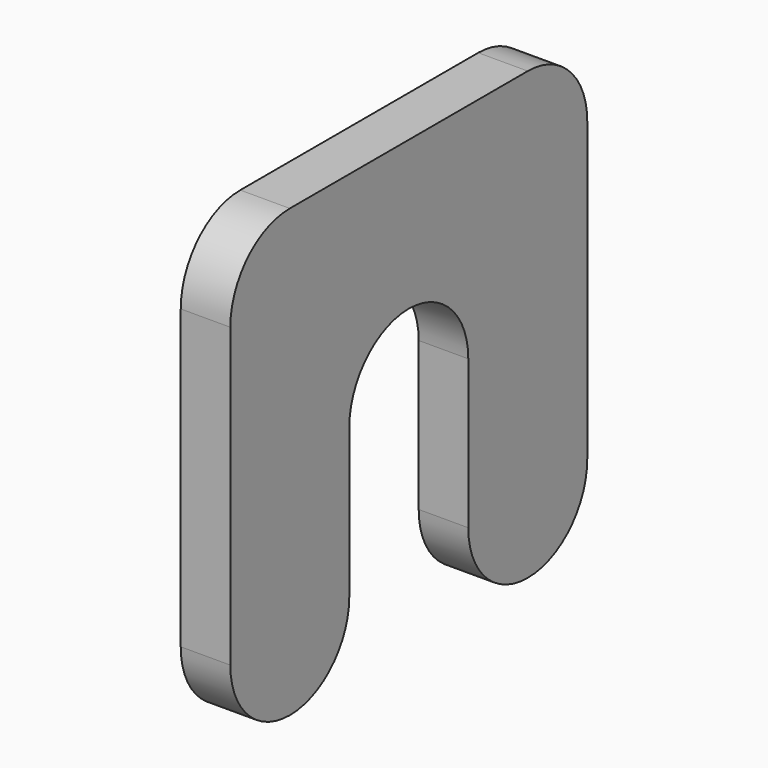
from build123d import *

# Parameters (mm, degrees)
F1_DEPTH = 10
F2_T     = -1


with BuildPart() as f1:
    # F0 (on Right) → F1 (new body)
    with BuildSketch(Plane.YZ):
        with BuildLine():
            Line((75, 90), (15, 90))
            ThreePointArc((15, 90), (4.393398, 85.606602), (0, 75))
            Line((0, 75), (0, 15))
            ThreePointArc((0, 15), (4.393398, 4.393398), (15, 0))
            ThreePointArc((15, 0), (25.606602, 4.393398), (30, 15))
            Line((30, 15), (30, 45))
            ThreePointArc((30, 45), (34.393398, 55.606602), (45, 60))
            ThreePointArc((45, 60), (55.606602, 55.606602), (60, 45))
            Line((60, 45), (60, 15))
            ThreePointArc((60, 15), (64.393398, 4.393398), (75, 0))
            ThreePointArc((75, 0), (85.606602, 4.393398), (90, 15))
            Line((90, 15), (90, 75))
            ThreePointArc((90, 75), (85.606602, 85.606602), (75, 90))
        make_face()
    extrude(amount=F1_DEPTH)

    # F2
    f2_openings = [f1.faces().sort_by_distance(p)[0] for p in [
        (0, 45, 88.727208),
    ]]
    offset(amount=F2_T, openings=f2_openings)


solid = f1.part
